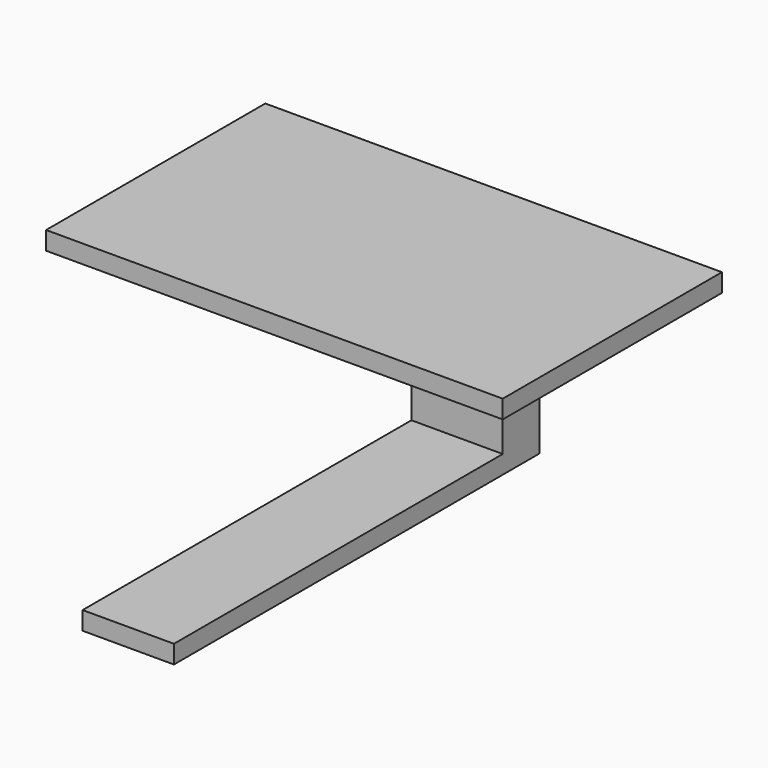
from build123d import *

# Parameters (mm, degrees)
F0_W     = 10
F0_H     = 5
F1_DEPTH = 2
F2_W     = 10
F2_H     = 5
F3_DEPTH = 20
F4_W     = 10
F4_H     = 5
F5_DEPTH = 2


with BuildPart() as f1:
    # F0 (on Top) → F1 (new body)
    with BuildSketch(Plane.XY):
        Polygon((4.999269, -35), (4.999269, -15), (-4.999269, -15), (-5.000731, -15), (-5.000731, -35), align=None)
        Polygon((-4.999269, -15), (4.999269, -15), (4.999269, 10), (-5.000731, 10), (-5.000731, -15), align=None)
        with Locations((-0.000731, 12.5)):
            Rectangle(F0_W, F0_H)
    extrude(amount=F1_DEPTH)

    # F2 (on face) → F3 (join)
    with BuildSketch(Plane.XY.offset(2)):
        with Locations((-0.000731, 12.5)):
            Rectangle(F2_W, F2_H)
    extrude(amount=F3_DEPTH)

    # F4 (on face) → F5 (join)
    with BuildSketch(Plane.XY.offset(22)):
        Polygon((-5.000731, 10), (-5.000731, 15), (-25, 15), (-25, -15), (-5.000731, -15), align=None)
        Polygon((4.999269, -15), (4.999269, 10), (-5.000731, 10), (-5.000731, -15), (-4.999269, -15), align=None)
        with Locations((-0.000731, 12.5)):
            Rectangle(F4_W, F4_H)
        Polygon((25, -15), (25, 15), (4.999269, 15), (4.999269, 10), (4.999269, -15), align=None)
    extrude(amount=F5_DEPTH)


solid = f1.part
